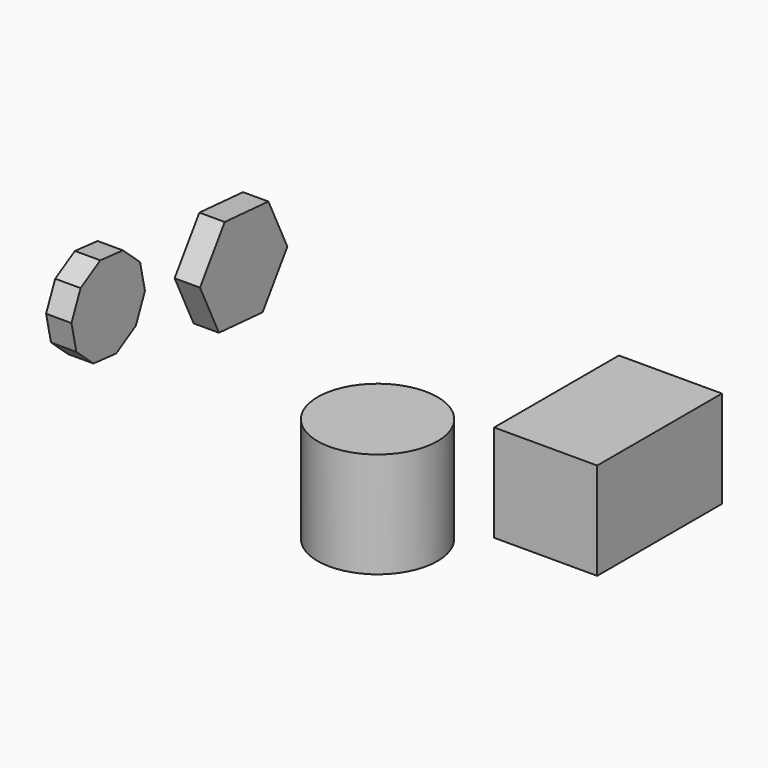
from build123d import *

# Parameters (mm, degrees)
F0_W     = 103.127422
F0_H     = 97.239232
F1_DEPTH = 156.0528
F2_R     = 59.984293
F3_DEPTH = 105.5899
F5_DEPTH = 25.4


with BuildPart() as f1:
    # F0 (on Front) → F1 (new body)
    with BuildSketch(Plane.XZ):
        with Locations((-21.168261, -65.092397)):
            Rectangle(F0_W, F0_H)
    extrude(amount=-F1_DEPTH)


with BuildPart() as f3:
    # F2 (on Top) → F3 (new body)
    with BuildSketch(Plane.XY):
        with Locations((-132.929862, -70.595644)):
            Circle(F2_R)
    extrude(amount=-F3_DEPTH)


with BuildPart() as f5:
    # F4 (on face) → F5 (new body)
    with BuildSketch(Plane.YZ.offset(30.39545)):
        Polygon((-497.738927, 408.706154), (-528.6825, 363.448594), (-504.960091, 314.021894), (-450.294108, 309.852753), (-419.350534, 355.110313), (-443.072944, 404.537014), align=None)
        Polygon((-633.556439, 347.996819), (-608.942554, 362.463606), (-597.532867, 388.635161), (-603.685491, 416.51484), (-625.050332, 435.453552), (-653.466747, 438.217354), (-678.080632, 423.750567), (-689.490319, 397.579012), (-683.337696, 369.699333), (-661.972855, 350.76062), align=None)
    extrude(amount=F5_DEPTH)


solid = Compound([f1.part, f3.part, f5.part])
